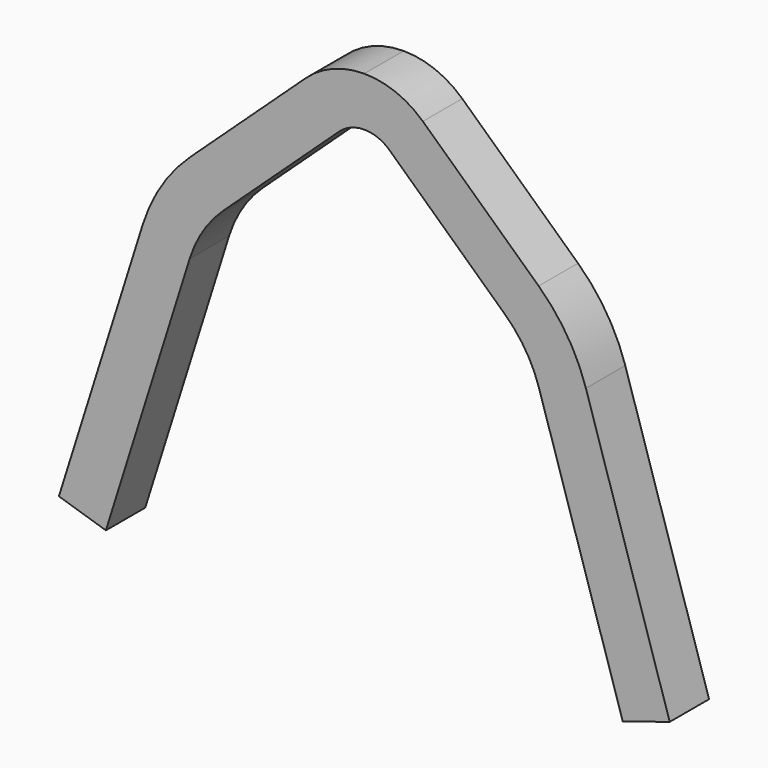
from build123d import *

# Parameters (mm, degrees)
F1_DEPTH = 0.4


with BuildPart() as f1:
    # F0 (on Front) → F1 (new body, symmetric)
    with BuildSketch(Plane.XZ):
        with BuildLine():
            Line((-4.963131, 0.240064), (-4.2, 0))
            Line((-4.2, 0), (-2.837828, 4.33016))
            ThreePointArc((-2.837828, 4.33016), (-2.620056, 4.799444), (-2.289198, 5.197168))
            Line((-2.289198, 5.197168), (-0.407759, 6.94015))
            ThreePointArc((-0.407759, 6.94015), (-0.218986, 7.05861), (0, 7.1))
            ThreePointArc((0, 7.1), (0.218986, 7.05861), (0.407759, 6.94015))
            Line((0.407759, 6.94015), (2.289198, 5.197168))
            ThreePointArc((2.289198, 5.197168), (2.620056, 4.799444), (2.837828, 4.33016))
            Line((2.837828, 4.33016), (4.2, 0))
            Line((4.2, 0), (4.963131, 0.240064))
            Line((4.963131, 0.240064), (3.600959, 4.570224))
            ThreePointArc((3.600959, 4.570224), (3.296079, 5.227221), (2.832877, 5.784035))
            Line((2.832877, 5.784035), (0.951439, 7.527017))
            ThreePointArc((0.951439, 7.527017), (0.510968, 7.803423), (0, 7.9))
            ThreePointArc((0, 7.9), (-0.510968, 7.803423), (-0.951439, 7.527017))
            Line((-0.951439, 7.527017), (-2.832877, 5.784035))
            ThreePointArc((-2.832877, 5.784035), (-3.296079, 5.227221), (-3.600959, 4.570224))
            Line((-3.600959, 4.570224), (-4.963131, 0.240064))
        make_face()
    extrude(amount=F1_DEPTH, both=True)


solid = f1.part
